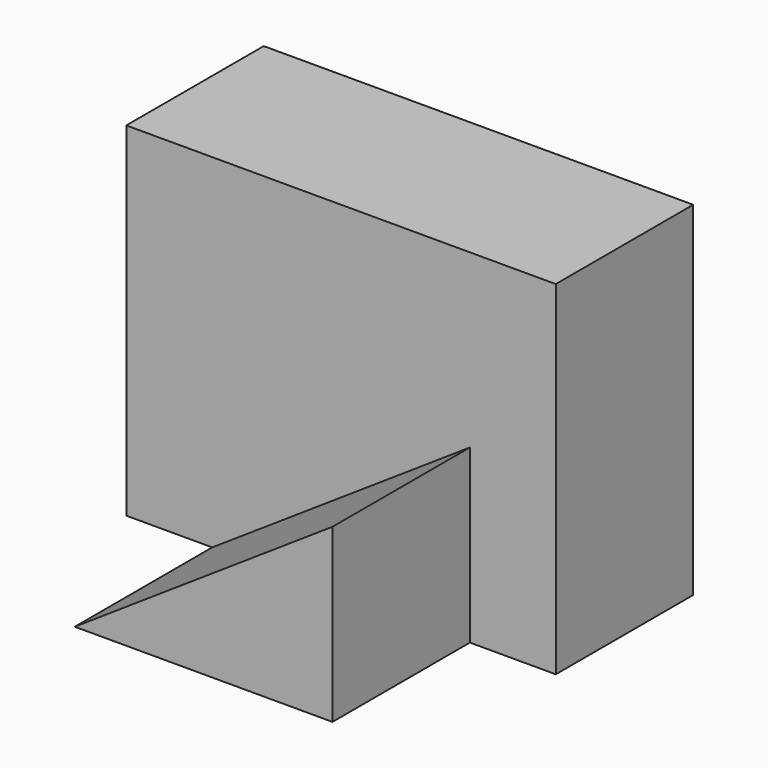
from build123d import *

# Parameters (mm, degrees)
F0_W     = 50
F0_H     = 40
F1_DEPTH = 20
F3_DEPTH = 20


with BuildPart() as f1:
    # F0 (on Front) → F1 (new body)
    with BuildSketch(Plane.XZ):
        with Locations((25, 20)):
            Rectangle(F0_W, F0_H)
    extrude(amount=F1_DEPTH)

    # F2 (on face) → F3 (join)
    with BuildSketch(Plane.XZ.offset(20)):
        Polygon((40, 20), (10, 0), (40, 0), align=None)
    extrude(amount=F3_DEPTH)


solid = f1.part
